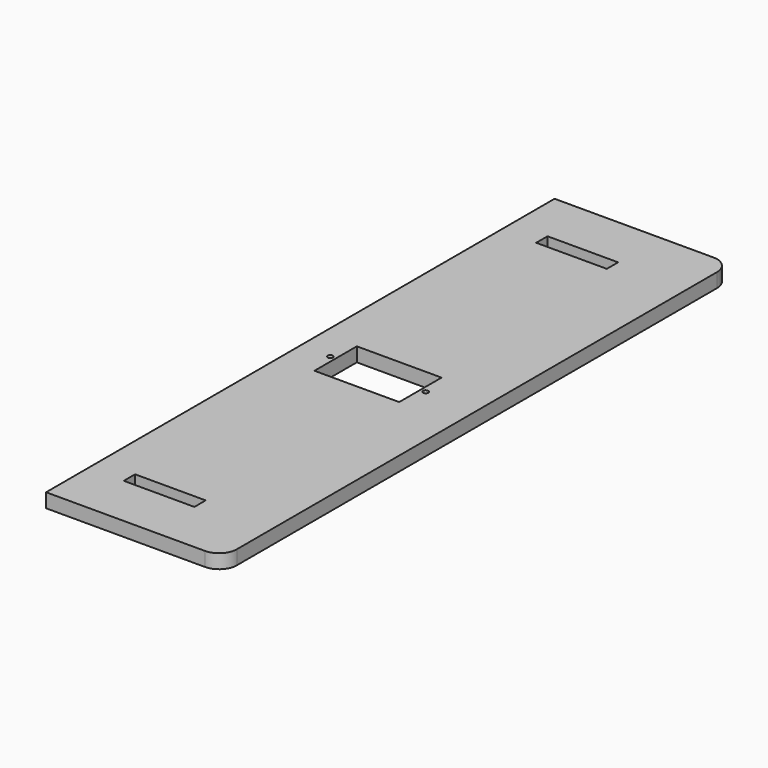
from build123d import *

# Parameters (mm, degrees)
SKETCH002_W  = 20
SKETCH002_H  = 4
PAD_DEPTH    = 4
SKETCH003_R  = 0.75
POCKET_DEPTH = 5


with BuildPart() as part:
    # Sketch002 → Pad (new body)
    with BuildSketch(Plane.XY):
        with BuildLine():
            Line((100, 165), (100, -15))
            Line((100, -15), (145, -15))
            ThreePointArc((145, -15), (148.535534, -13.535534), (150, -10))
            Line((150, -10), (150, 0))
            Line((150, 0), (150, 150))
            Line((150, 150), (150, 160))
            ThreePointArc((150, 160), (148.535534, 163.535534), (145, 165))
            Line((145, 165), (100, 165))
        make_face()
        Polygon((110, 82.5), (110, 67.5), (134, 67.5), (134, 75), (134, 82.5), align=None, mode=Mode.SUBTRACT)
        with Locations((120, 148)):
            Rectangle(SKETCH002_W, SKETCH002_H, mode=Mode.SUBTRACT)
        with Locations((120, 2)):
            Rectangle(SKETCH002_W, SKETCH002_H, mode=Mode.SUBTRACT)
    extrude(amount=PAD_DEPTH)

    # Sketch003 (on Face18 of Pad) → Pocket (cut)
    with BuildSketch(Plane.XY.offset(4)):
        with Locations((108.5, 75)):
            Circle(SKETCH003_R)
        with Locations((135.5, 75)):
            Circle(SKETCH003_R)
    extrude(amount=-POCKET_DEPTH, mode=Mode.SUBTRACT)


solid = part.part
